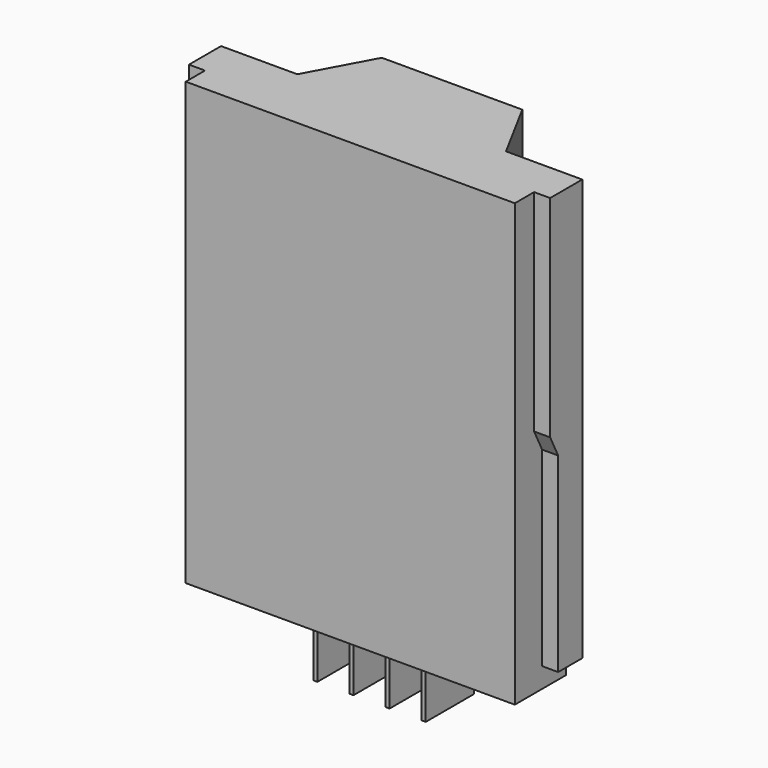
from build123d import *

# Parameters (mm, degrees)
PAD_DEPTH       = 110
POCKET_DEPTH    = 4
POCKET002_DEPTH = 4
SKETCH003_W     = 1
SKETCH003_H     = 15
PAD001_DEPTH    = 15


with BuildPart() as part:
    # Sketch → Pad (new body)
    with BuildSketch(Plane.XY):
        Polygon((-17.5, 25.7), (17.5, 25.7), (26, 10), (45, 10), (45, 0), (41, 0), (41, -6), (-41, -6), (-41, 0), (-45, 0), (-45, 10), (-26, 10), align=None)
    extrude(amount=PAD_DEPTH)

    # Sketch001 → Pocket (cut)
    with BuildSketch(Plane.YZ.offset(-45)):
        Polygon((2.5, 5), (10, 5), (10, 0), (0, 0), (0, 57.5), (2.5, 52.5), align=None)
    extrude(amount=POCKET_DEPTH, mode=Mode.SUBTRACT)

    # Sketch002 → Pocket002 (cut)
    with BuildSketch(Plane.YZ.offset(45)):
        Polygon((2.5, 5), (10, 5), (10, 0), (0, 0), (0, 57.5), (2.5, 52.5), align=None)
    extrude(amount=-POCKET002_DEPTH, mode=Mode.SUBTRACT)

    # Sketch003 → Pad001 (join)
    with BuildSketch(Plane.XY):
        with Locations((-13.5, 7.5)):
            Rectangle(SKETCH003_W, SKETCH003_H)
        with Locations((-4.5, 7.5)):
            Rectangle(SKETCH003_W, SKETCH003_H)
        with Locations((4.5, 7.5)):
            Rectangle(SKETCH003_W, SKETCH003_H)
        with Locations((13.5, 7.5)):
            Rectangle(SKETCH003_W, SKETCH003_H)
    extrude(amount=-PAD001_DEPTH)


solid = part.part
